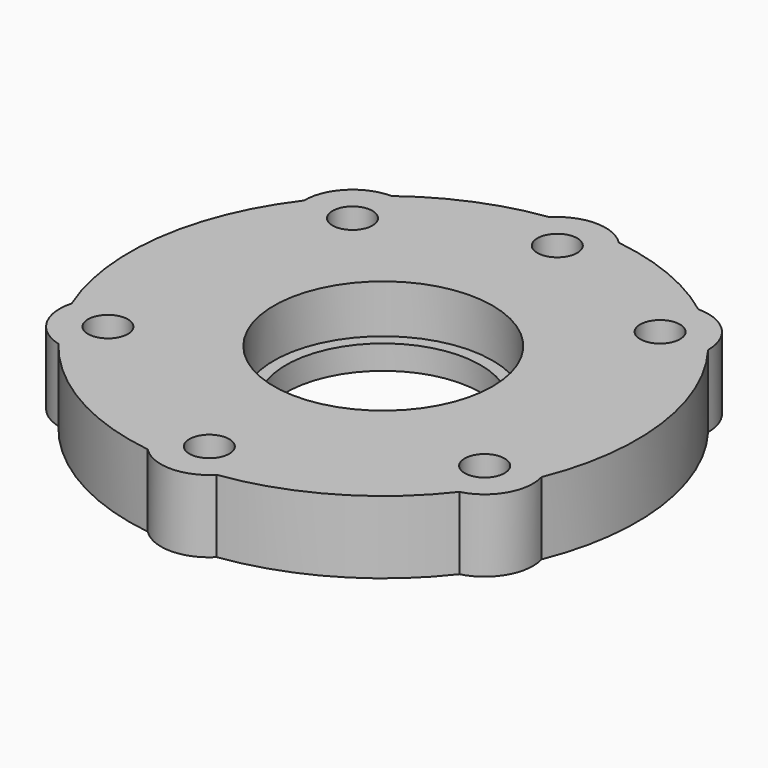
from build123d import *

# Parameters (mm, degrees)
SKETCH009_R     = 21
PAD002_DEPTH    = 6
SKETCH010_R     = 4
PAD003_DEPTH    = 6
SKETCH011_R     = 1.65
POCKET007_DEPTH = 6.001
SKETCH012_R     = 9.05
POCKET008_DEPTH = 4
SKETCH013_R     = 8.05
POCKET009_DEPTH = 6.001


with BuildPart() as part:
    # Sketch009 → Pad002 (new body)
    with BuildSketch(Plane.XY):
        Circle(SKETCH009_R)
    extrude(amount=PAD002_DEPTH)

    # Sketch010 (on DatumPlane) → Pad003 (join)
    with BuildSketch(Plane.XY.offset(6)):
        with Locations((-12.727922, 12.727922)):
            Circle(SKETCH010_R)
        with Locations((0, 18)):
            Circle(SKETCH010_R)
        with Locations((12.727922, 12.727922)):
            Circle(SKETCH010_R)
        with Locations((15.588457, -9)):
            Circle(SKETCH010_R)
        with Locations((-15.588457, -9)):
            Circle(SKETCH010_R)
        with Locations((0, -18)):
            Circle(SKETCH010_R)
    extrude(amount=-PAD003_DEPTH)

    # Sketch011 (on DatumPlane) → Pocket007 (cut, through all)
    with BuildSketch(Plane.XY.offset(6)):
        with Locations((-12.727922, 12.727922)):
            Circle(SKETCH011_R)
        with Locations((0, 18)):
            Circle(SKETCH011_R)
        with Locations((12.727922, 12.727922)):
            Circle(SKETCH011_R)
        with Locations((-15.588457, -9)):
            Circle(SKETCH011_R)
        with Locations((15.588457, -9)):
            Circle(SKETCH011_R)
        with Locations((0, -18)):
            Circle(SKETCH011_R)
    extrude(amount=-POCKET007_DEPTH, mode=Mode.SUBTRACT)

    # Sketch012 (on DatumPlane) → Pocket008 (cut)
    with BuildSketch(Plane.XY.offset(6)):
        Circle(SKETCH012_R)
    extrude(amount=-POCKET008_DEPTH, mode=Mode.SUBTRACT)

    # Sketch013 (on DatumPlane) → Pocket009 (cut, through all)
    with BuildSketch(Plane.XY.offset(6)):
        Circle(SKETCH013_R)
    extrude(amount=-POCKET009_DEPTH, mode=Mode.SUBTRACT)


with BuildPart() as part_1:
    # Body001 placement: moved
    add(part.part.moved(Location((0, 0, 14))))


solid = part_1.part
